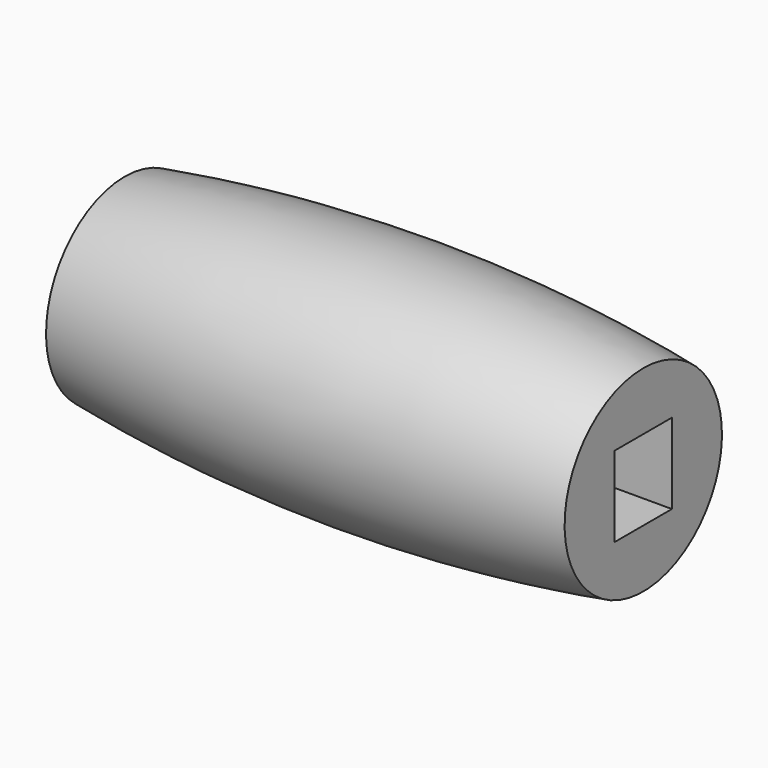
from build123d import *

# Parameters (mm, degrees)
F3_DEPTH = 45.974


with BuildPart() as f1:
    # F0 (on Front) → F1 (revolve)
    with BuildSketch(Plane.XZ):
        with BuildLine():
            Line((0, 6.985), (0, 0))
            Line((0, 0), (36.83, 0))
            Line((36.83, 0), (36.83, 6.985))
            ThreePointArc((36.83, 6.985), (18.415, 8.4328), (0, 6.985))
        make_face()
    revolve(axis=Axis((18.415, 0, 0), (1, 0, 0)))

    # F2 (on face) → F3 (cut)
    with BuildSketch(Plane.YZ.offset(36.83)):
        Polygon((2.54, -2.8575), (2.54, 0), (2.54, 2.8575), (-2.54, 2.8575), (-2.54, 0), (-2.54, -2.8575), align=None)
    extrude(amount=-F3_DEPTH, mode=Mode.SUBTRACT)


solid = f1.part
